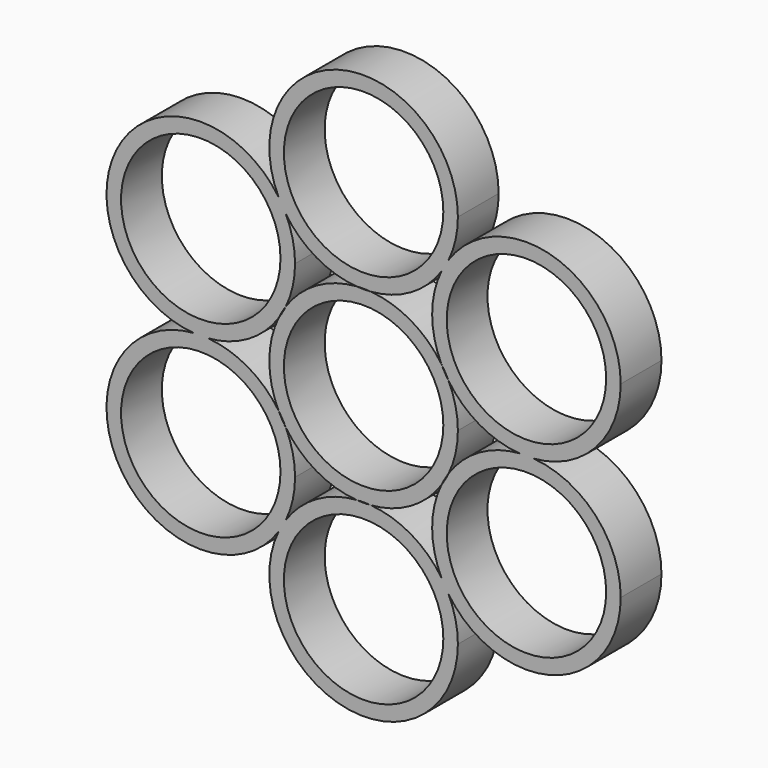
from build123d import *

# Parameters (mm, degrees)
F0_R     = 10.95
F1_DEPTH = 7


with BuildPart() as f1:
    # F0 (on Front) → F1 (new body)
    with BuildSketch(Plane.XZ):
        with BuildLine():
            ThreePointArc((10.696482594, 7.2998472083), (11.2150292849, 6.4750001766), (11.6700944231, 5.6135020534))
            ThreePointArc((11.6700944231, 5.6135020534), (15.8915777302, 1.6983195167), (21.3929672299, 0))
            ThreePointArc((21.3929672299, 0), (22.3665767103, 0.0366509154), (23.3401861908, 0))
            ThreePointArc((23.3401861908, 0), (31.8615949507, 4.1072643351), (35.3165767103, 12.9133490846))
            ThreePointArc((35.3165767103, 12.9133490846), (26.1864613412, 25.2871513057), (11.6700930954, 20.2131941703))
            ThreePointArc((11.6700930954, 20.2131941703), (11.215028979, 19.3516981691), (10.6964836149, 18.5268530834))
            ThreePointArc((10.6964836149, 18.5268530834), (9.4165767103, 12.9133502622), (10.696482594, 7.2998472083))
        make_face()
        with Locations((22.3665767103, 12.9133490846)):
            Circle(F0_R, mode=Mode.SUBTRACT)
        with BuildLine():
            ThreePointArc((21.3929672299, 0), (15.8915777302, -1.6983195167), (11.6700944231, -5.6135020534))
            ThreePointArc((11.6700944231, -5.6135020534), (11.2150292849, -6.4750001766), (10.696482594, -7.2998472083))
            ThreePointArc((10.696482594, -7.2998472083), (9.4165767103, -12.9133502622), (10.6964836149, -18.5268530834))
            ThreePointArc((10.6964836149, -18.5268530834), (11.215028979, -19.3516981691), (11.6700930954, -20.2131941703))
            ThreePointArc((11.6700930954, -20.2131941703), (26.1864613412, -25.2871513057), (35.3165767103, -12.9133490846))
            ThreePointArc((35.3165767103, -12.9133490846), (31.8615949507, -4.1072643351), (23.3401861908, 0))
            ThreePointArc((23.3401861908, 0), (22.3665767103, -0.0366509154), (21.3929672299, 0))
        make_face()
        with Locations((22.3665767103, -12.9133490846)):
            Circle(F0_R, mode=Mode.SUBTRACT)
        with BuildLine():
            ThreePointArc((23.3401861908, 0), (22.3665767103, 0.0366509154), (21.3929672299, 0))
            ThreePointArc((21.3929672299, 0), (22.3665767103, -0.0366509154), (23.3401861908, 0))
        make_face()
        with BuildLine():
            ThreePointArc((-0.9736118291, 12.9133492616), (0, 12.9500003532), (0.9736118291, 12.9133492616))
            ThreePointArc((0.9736118291, 12.9133492616), (6.4750010199, 14.6116697789), (10.6964836149, 18.5268530834))
            ThreePointArc((10.6964836149, 18.5268530834), (11.1515477313, 19.3883490846), (11.6700930954, 20.2131941703))
            ThreePointArc((11.6700930954, 20.2131941703), (12.6259693803, 22.9479141884), (12.95, 25.8266981691))
            ThreePointArc((12.95, 25.8266981691), (-2.8787839807, 38.4526675494), (-11.6700930954, 20.2131941703))
            ThreePointArc((-11.6700930954, 20.2131941703), (-11.1515477313, 19.3883490846), (-10.6964836149, 18.5268530834))
            ThreePointArc((-10.6964836149, 18.5268530834), (-6.4750010199, 14.6116697789), (-0.9736118291, 12.9133492616))
        make_face()
        with Locations((0, 25.8266981691)):
            Circle(F0_R, mode=Mode.SUBTRACT)
        with BuildLine():
            ThreePointArc((11.6700930954, 20.2131941703), (11.1515477313, 19.3883490846), (10.6964836149, 18.5268530834))
            ThreePointArc((10.6964836149, 18.5268530834), (11.215028979, 19.3516981691), (11.6700930954, 20.2131941703))
        make_face()
        with BuildLine():
            ThreePointArc((10.6964836149, -18.5268530834), (6.4750010199, -14.6116697789), (0.9736118291, -12.9133492616))
            ThreePointArc((0.9736118291, -12.9133492616), (0, -12.9500003532), (-0.9736118291, -12.9133492616))
            ThreePointArc((-0.9736118291, -12.9133492616), (-6.4750010199, -14.6116697789), (-10.6964836149, -18.5268530834))
            ThreePointArc((-10.6964836149, -18.5268530834), (-11.1515477313, -19.3883490846), (-11.6700930954, -20.2131941703))
            ThreePointArc((-11.6700930954, -20.2131941703), (-2.8787839807, -38.4526675494), (12.95, -25.8266981691))
            ThreePointArc((12.95, -25.8266981691), (12.6259693803, -22.9479141884), (11.6700930954, -20.2131941703))
            ThreePointArc((11.6700930954, -20.2131941703), (11.1515477313, -19.3883490846), (10.6964836149, -18.5268530834))
        make_face()
        with Locations((0, -25.8266981691)):
            Circle(F0_R, mode=Mode.SUBTRACT)
        with BuildLine():
            ThreePointArc((11.6700930954, -20.2131941703), (11.215028979, -19.3516981691), (10.6964836149, -18.5268530834))
            ThreePointArc((10.6964836149, -18.5268530834), (11.1515477313, -19.3883490846), (11.6700930954, -20.2131941703))
        make_face()
        with BuildLine():
            ThreePointArc((-11.6700944231, 5.6135020534), (-11.2150292849, 6.4750001766), (-10.696482594, 7.2998472083))
            ThreePointArc((-10.696482594, 7.2998472083), (-9.7406070682, 10.0345662521), (-9.4165767103, 12.9133490846))
            ThreePointArc((-9.4165767103, 12.9133490846), (-9.74060733, 15.7921330652), (-10.6964836149, 18.5268530834))
            ThreePointArc((-10.6964836149, 18.5268530834), (-11.215028979, 19.3516981691), (-11.6700930954, 20.2131941703))
            ThreePointArc((-11.6700930954, 20.2131941703), (-33.5816056893, 19.3883490846), (-23.3401861908, 0))
            ThreePointArc((-23.3401861908, 0), (-22.3665767103, 0.0366509154), (-21.3929672299, 0))
            ThreePointArc((-21.3929672299, 0), (-15.8915777302, 1.6983195167), (-11.6700944231, 5.6135020534))
        make_face()
        with Locations((-22.3665767103, 12.9133490846)):
            Circle(F0_R, mode=Mode.SUBTRACT)
        with BuildLine():
            ThreePointArc((-11.6700930954, 20.2131941703), (-11.215028979, 19.3516981691), (-10.6964836149, 18.5268530834))
            ThreePointArc((-10.6964836149, 18.5268530834), (-11.1515477313, 19.3883490846), (-11.6700930954, 20.2131941703))
        make_face()
        with BuildLine():
            ThreePointArc((-9.4165767103, -12.9133490846), (-9.7406070682, -10.0345662521), (-10.696482594, -7.2998472083))
            ThreePointArc((-10.696482594, -7.2998472083), (-11.2150292849, -6.4750001766), (-11.6700944231, -5.6135020534))
            ThreePointArc((-11.6700944231, -5.6135020534), (-15.8915777302, -1.6983195167), (-21.3929672299, 0))
            ThreePointArc((-21.3929672299, 0), (-22.3665767103, -0.0366509154), (-23.3401861908, 0))
            ThreePointArc((-23.3401861908, 0), (-33.5816056893, -19.3883490846), (-11.6700930954, -20.2131941703))
            ThreePointArc((-11.6700930954, -20.2131941703), (-11.215028979, -19.3516981691), (-10.6964836149, -18.5268530834))
            ThreePointArc((-10.6964836149, -18.5268530834), (-9.74060733, -15.7921330652), (-9.4165767103, -12.9133490846))
        make_face()
        with Locations((-22.3665767103, -12.9133490846)):
            Circle(F0_R, mode=Mode.SUBTRACT)
        with BuildLine():
            ThreePointArc((-11.6700930954, -20.2131941703), (-11.1515477313, -19.3883490846), (-10.6964836149, -18.5268530834))
            ThreePointArc((-10.6964836149, -18.5268530834), (-11.215028979, -19.3516981691), (-11.6700930954, -20.2131941703))
        make_face()
        with BuildLine():
            ThreePointArc((-23.3401861908, 0), (-22.3665767103, -0.0366509154), (-21.3929672299, 0))
            ThreePointArc((-21.3929672299, 0), (-22.3665767103, 0.0366509154), (-23.3401861908, 0))
        make_face()
    extrude(amount=F1_DEPTH)


with BuildPart() as f1b:
    # F0 (on Front) → F1, piece 2 (new body)
    with BuildSketch(Plane.XZ):
        with BuildLine():
            ThreePointArc((11.6700944231, -5.6135020534), (12.6259699835, -2.878782924), (12.9500003532, 0))
            ThreePointArc((12.9500003532, 0), (12.6259699835, 2.878782924), (11.6700944231, 5.6135020534))
            ThreePointArc((11.6700944231, 5.6135020534), (11.1515477313, 6.4383490846), (10.696482594, 7.2998472083))
            ThreePointArc((10.696482594, 7.2998472083), (6.4750001766, 11.2150292849), (0.9736118291, 12.9133492616))
            ThreePointArc((0.9736118291, 12.9133492616), (0, 12.8766981691), (-0.9736118291, 12.9133492616))
            ThreePointArc((-0.9736118291, 12.9133492616), (-6.4750001766, 11.2150292849), (-10.696482594, 7.2998472083))
            ThreePointArc((-10.696482594, 7.2998472083), (-11.1515477313, 6.4383490846), (-11.6700944231, 5.6135020534))
            ThreePointArc((-11.6700944231, 5.6135020534), (-12.9500003532, 0), (-11.6700944231, -5.6135020534))
            ThreePointArc((-11.6700944231, -5.6135020534), (-11.1515477313, -6.4383490846), (-10.696482594, -7.2998472083))
            ThreePointArc((-10.696482594, -7.2998472083), (-6.4750001766, -11.2150292849), (-0.9736118291, -12.9133492616))
            ThreePointArc((-0.9736118291, -12.9133492616), (0, -12.8766981691), (0.9736118291, -12.9133492616))
            ThreePointArc((0.9736118291, -12.9133492616), (6.4750001766, -11.2150292849), (10.696482594, -7.2998472083))
            ThreePointArc((10.696482594, -7.2998472083), (11.1515477313, -6.4383490846), (11.6700944231, -5.6135020534))
        make_face()
        Circle(F0_R, mode=Mode.SUBTRACT)
    extrude(amount=F1_DEPTH)


solid = Compound([f1.part, f1b.part])
